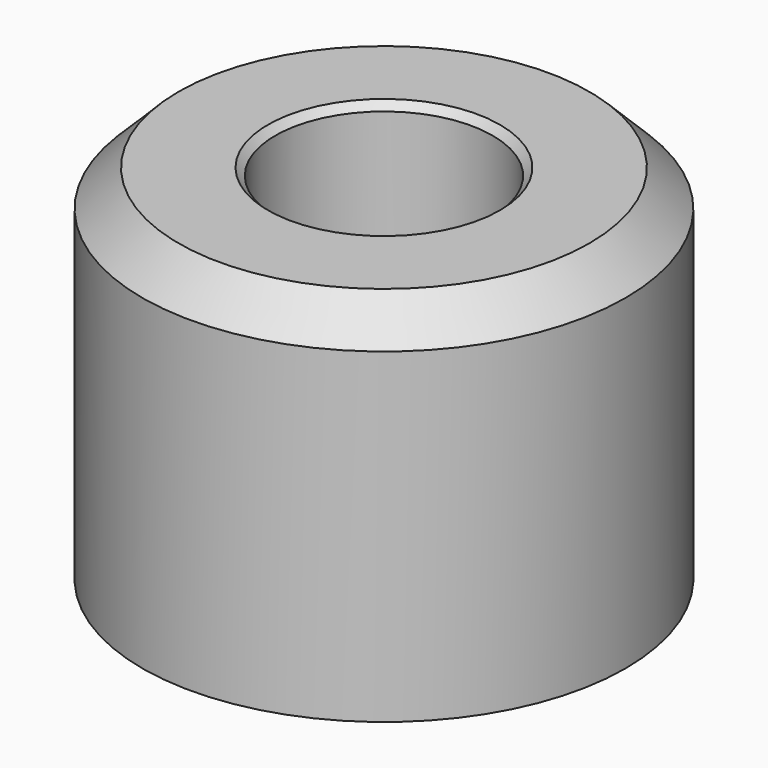
from build123d import *

# Parameters (mm, degrees)
F0_R     = 10
F0_R_2   = 4.5
F1_DEPTH = 15
F2_SIZE  = 1.5
F3_SIZE  = 0.3


with BuildPart() as f1:
    # F0 (on Top) → F1 (new body)
    with BuildSketch(Plane.XY):
        Circle(F0_R)
        Circle(F0_R_2, mode=Mode.SUBTRACT)
    extrude(amount=-F1_DEPTH)

    # F2
    f2_edges = [f1.edges().sort_by_distance(p)[0] for p in [
        (-10, 0, 0),
    ]]
    chamfer(f2_edges, length=F2_SIZE)

    # F3
    f3_edges = [f1.edges().sort_by_distance(p)[0] for p in [
        (-4.5, 0, 0),
    ]]
    chamfer(f3_edges, length=F3_SIZE)


solid = f1.part
